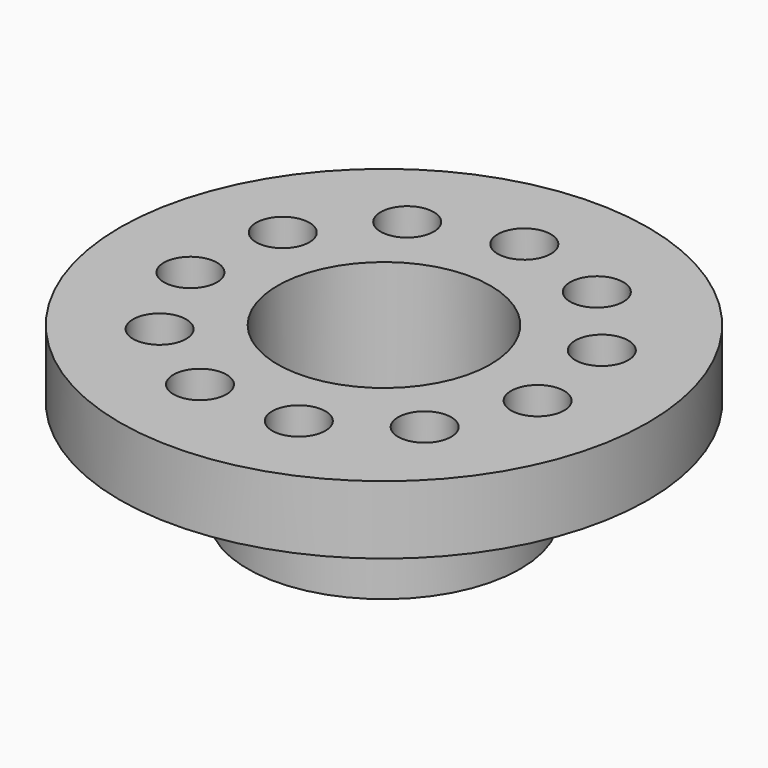
from build123d import *

# Parameters (mm, degrees)
F0_R     = 4
F0_R_2   = 3.125
F1_DEPTH = 5
F2_R     = 7.75
F2_R_2   = 4
F3_DEPTH = 2
F4_R     = 4.75
F4_R_2   = 4
F5_DEPTH = 1
F6_R     = 0.7799623088
F7_DEPTH = 12.7


with BuildPart() as f1:
    # F0 (on Top) → F1 (new body)
    with BuildSketch(Plane.XY):
        Circle(F0_R)
        Circle(F0_R_2, mode=Mode.SUBTRACT)
    extrude(amount=F1_DEPTH)

    # F2 (on face) → F3 (join)
    with BuildSketch(Plane.XY.offset(5)):
        Circle(F2_R)
        Circle(F2_R_2, mode=Mode.SUBTRACT)
    extrude(amount=-F3_DEPTH)

    # F4 (on face) → F5 (join)
    with BuildSketch(Plane(origin=(0, 0, 3), x_dir=(1, 0, 0), z_dir=(0, 0, -1))):
        Circle(F4_R)
        Circle(F4_R_2, mode=Mode.SUBTRACT)
    extrude(amount=F5_DEPTH)

    # F6 (on face) → F7 (cut, symmetric)
    with BuildSketch(Plane.XY.offset(5)):
        with Locations((0, 5.1454929635)):
            Circle(F6_R)
        with Locations((-2.781863522, 4.3286641337)):
            Circle(F6_R)
        with Locations((-4.6805050315, 2.1375150263)):
            Circle(F6_R)
        with Locations((-5.0931192643, -0.7322799989)):
            Circle(F6_R)
        with Locations((-3.888704117, -3.3695812986)):
            Circle(F6_R)
        with Locations((-1.4496528888, -4.9370643443)):
            Circle(F6_R)
        with Locations((1.4496528888, -4.9370643443)):
            Circle(F6_R)
        with Locations((3.888704117, -3.3695812986)):
            Circle(F6_R)
        with Locations((5.0931192643, -0.7322799989)):
            Circle(F6_R)
        with Locations((4.6805050315, 2.1375150263)):
            Circle(F6_R)
        with Locations((2.781863522, 4.3286641337)):
            Circle(F6_R)
    extrude(amount=F7_DEPTH, both=True, mode=Mode.SUBTRACT)


solid = f1.part
